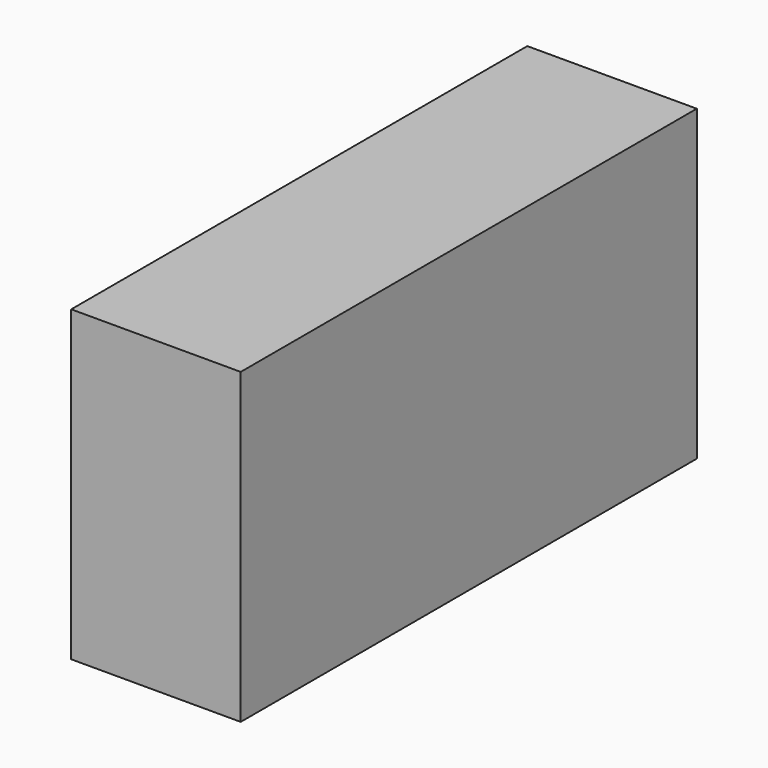
from build123d import *

# Parameters (mm, degrees)
BOX017_W     = 6
BOX017_H     = 19
BOX017_DEPTH = 6
BOX018_W     = 11
BOX018_H     = 37
BOX018_DEPTH = 20


with BuildPart() as recess:
    # Box017 → Box017 (new body)
    with BuildSketch(Plane(origin=(-20.2, 18, 2), x_dir=(1, 0, 0), z_dir=(0, 0, 1))):
        with Locations((3, 9.5)):
            Rectangle(BOX017_W, BOX017_H)
    extrude(amount=BOX017_DEPTH)


with BuildPart() as raspicam_extra:
    # Box018 → Box018 (new body)
    with BuildSketch(Plane(origin=(-20.4, 0, -18), x_dir=(1, 0, 0), z_dir=(0, 0, 1))):
        with Locations((5.5, 18.5)):
            Rectangle(BOX018_W, BOX018_H)
    extrude(amount=BOX018_DEPTH)

    # Cut004: cut recess
    add(recess.part, mode=Mode.SUBTRACT)


solid = raspicam_extra.part
